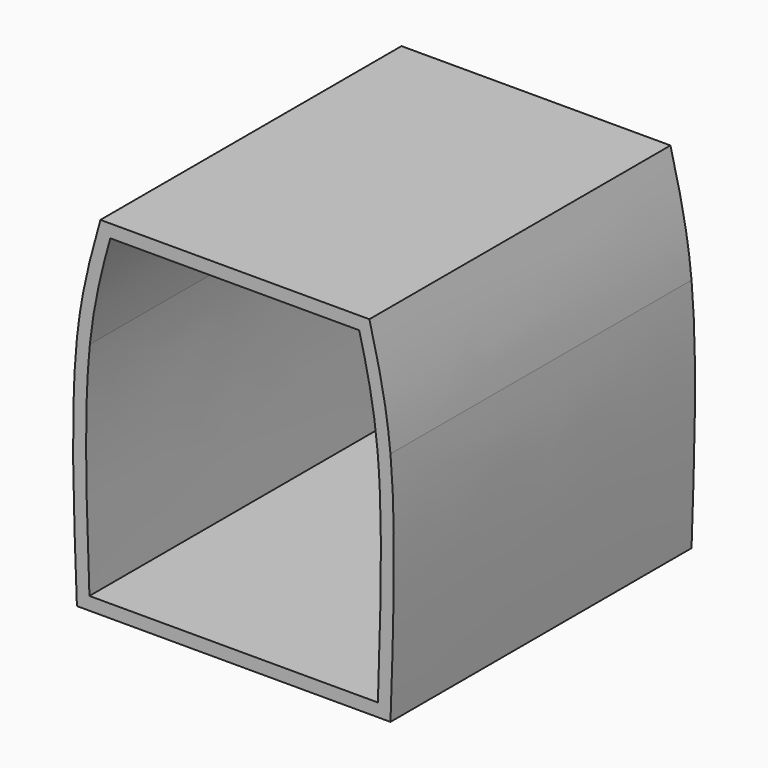
from build123d import *

# Parameters (mm, degrees)
F0_W     = 60.2390449494
F0_H     = 45.3361533582
F1_DEPTH = 72.3
F2_T     = -2.5


with BuildPart() as f1:
    # F0 (on Front) → F1 (new body)
    with BuildSketch(Plane.XZ):
        with BuildLine():
            add(Edge.make_bspline(
                [(-29.0998518467, 45.3361533582), (-30.3761818728, 33.0718928085), (-29.7380168597, 16.5359464043), (-29.0998518467, 0)],
                knots=[0.4101722166, 0.4101722166, 0.4101722166, 0.4101722166, 1, 1, 1, 1], degree=3))
            Line((-29.0998518467, 0), (-29.0998518467, 45.3361533582))
        make_face()
        with BuildLine():
            Line((31.1391931027, 45.3361533582), (31.1391931027, 0))
            add(Edge.make_bspline(
                [(31.1391931027, 45.3361533582), (32.2873652792, 33.0616785906), (31.713279191, 16.5308392953), (31.1391931027, 0)],
                knots=[0.4096689576, 0.4096689576, 0.4096689576, 0.4096689576, 1, 1, 1, 1], degree=3))
        make_face()
        with Locations((1.019670628, 22.6680766791)):
            Rectangle(F0_W, F0_H)
        with BuildLine():
            add(Edge.make_bspline(
                [(-24.5854519308, 66.7906925082), (-26.3988654728, 60.3277684568), (-28.2122790148, 53.8648444053), (-29.0998518467, 45.3361533582)],
                knots=[0, 0, 0, 0, 0.4101722166, 0.4101722166, 0.4101722166, 0.4101722166], degree=3))
            Line((-29.0998518467, 45.3361533582), (31.1391931027, 45.3361533582))
            add(Edge.make_bspline(
                [(27.0899850875, 66.7906925082), (28.7161935637, 60.3224495827), (30.3424020399, 53.8542066572), (31.1391931027, 45.3361533582)],
                knots=[0, 0, 0, 0, 0.4096689576, 0.4096689576, 0.4096689576, 0.4096689576], degree=3))
            Line((27.0899850875, 66.7906925082), (0, 66.7906925082))
            Line((0, 66.7906925082), (-21.6005891562, 66.7906925082))
            Line((-21.6005891562, 66.7906925082), (-24.5854519308, 66.7906925082))
        make_face()
    extrude(amount=F1_DEPTH)

    # F2
    f2_openings = [f1.faces().sort_by_distance(p)[0] for p in [
        (1.031904, -72.3, 32.779225),
    ]]
    offset(amount=F2_T, openings=f2_openings, kind=Kind.INTERSECTION)


solid = f1.part
